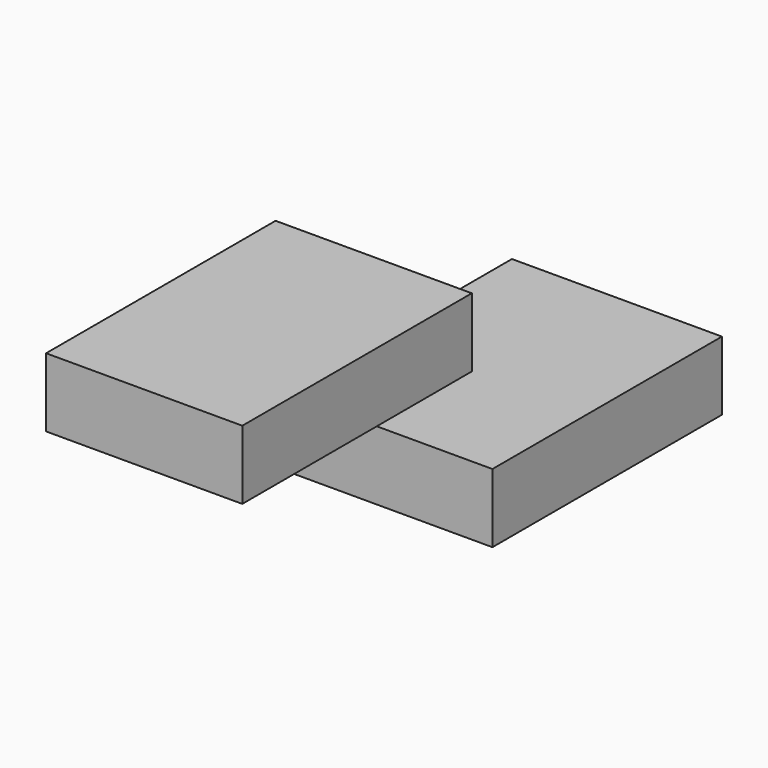
from build123d import *

# Parameters (mm, degrees)
F0_W     = 18.592797
F0_H     = 6.096001
F1_DEPTH = 25.4
F2_W     = 17.373607
F2_H     = 6.095998
F3_DEPTH = 25.4


with BuildPart() as f1:
    # F0 (on Front) → F1 (new body)
    with BuildSketch(Plane.XZ):
        with Locations((-53.492401, 16.9164)):
            Rectangle(F0_W, F0_H)
    extrude(amount=F1_DEPTH)


with BuildPart() as f3:
    # F2 (on face) → F3 (new body)
    with BuildSketch(Plane.XZ.offset(25.4)):
        with Locations((-54.711602, 30.0228)):
            Rectangle(F2_W, F2_H)
    extrude(amount=F3_DEPTH)


solid = Compound([f1.part, f3.part])
